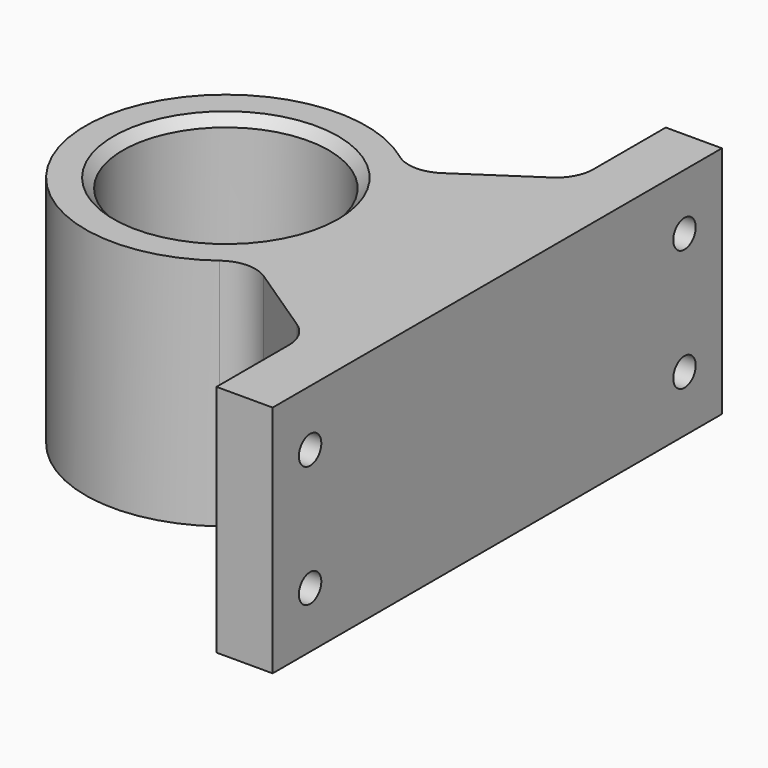
from build123d import *

# Parameters (mm, degrees)
F0_R     = 13.97
F1_DEPTH = 15.875
F2_R     = 5.08
F3_SIZE2 = 1.27
F3_SIZE  = 1.27
F4_R     = 3.683
F5_DEPTH = 1.778
F6_R     = 1.905
F7_DEPTH = 7.621


with BuildPart() as f1:
    # F0 (on Top) → F1 (new body, symmetric)
    with BuildSketch(Plane.XY):
        with BuildLine():
            Line((3.81, 38.1), (-3.81, 38.1))
            Line((-3.81, 38.1), (-3.81, 23.11151))
            Line((-3.81, 23.11151), (-19.05, 12.95151))
            ThreePointArc((-19.05, 12.95151), (-52.07, 0), (-19.05, -12.95151))
            Line((-19.05, -12.95151), (-3.81, -23.11151))
            Line((-3.81, -23.11151), (-3.81, -38.1))
            Line((-3.81, -38.1), (3.81, -38.1))
            Line((3.81, -38.1), (3.81, 38.1))
        make_face()
        with Locations((-33.02, 0)):
            Circle(F0_R, mode=Mode.SUBTRACT)
    extrude(amount=F1_DEPTH, both=True)

    # F2
    f2_edges = [f1.edges().sort_by_distance(p)[0] for p in [
        (-19.05, -12.95151, 0),
        (-3.81, -23.11151, 0),
        (-3.81, 23.11151, 0),
        (-19.05, 12.95151, 0),
    ]]
    fillet(f2_edges, radius=F2_R)

    # F3
    f3_edges = [f1.edges().sort_by_distance(p)[0] for p in [
        (-46.99, 0, 15.875),
        (-46.99, 0, -15.875),
    ]]
    chamfer(f3_edges, length=F3_SIZE, length2=F3_SIZE2)

    # F4 (on face) → F5 (cut)
    with BuildSketch(Plane(origin=(-3.81, 0, 0), x_dir=(0, -1, 0), z_dir=(-1, 0, 0))):
        with Locations((-31.75, 8.255)):
            Circle(F4_R)
        with Locations((-31.75, -8.255)):
            Circle(F4_R)
        with Locations((31.75, 8.255)):
            Circle(F4_R)
        with Locations((31.75, -8.255)):
            Circle(F4_R)
    extrude(amount=-F5_DEPTH, mode=Mode.SUBTRACT)

    # F6 (on face) → F7 (cut, through all)
    with BuildSketch(Plane(origin=(-3.81, 0, 0), x_dir=(0, -1, 0), z_dir=(-1, 0, 0))):
        with Locations((31.75, 8.255)):
            Circle(F6_R)
        with Locations((-31.75, 8.255)):
            Circle(F6_R)
        with Locations((31.75, -8.255)):
            Circle(F6_R)
        with Locations((-31.75, -8.255)):
            Circle(F6_R)
    extrude(amount=-F7_DEPTH, mode=Mode.SUBTRACT)


solid = f1.part
